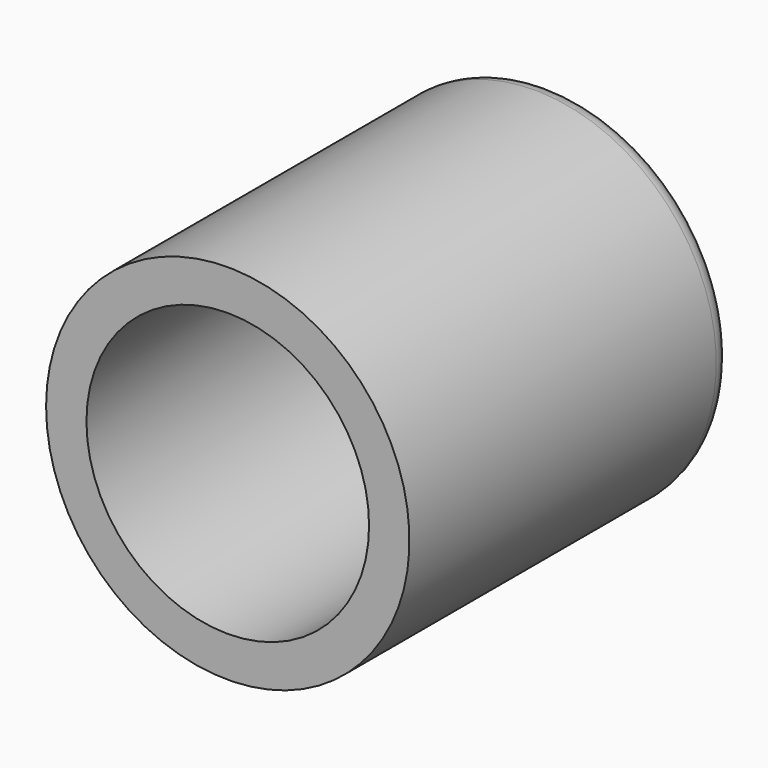
from build123d import *


with BuildPart() as f1:
    # F0 (on Top) → F1 (revolve)
    with BuildSketch(Plane.XY):
        with BuildLine():
            Line((-7.14375, 7.14375), (-7.14375, -7.9375))
            Line((-7.14375, -7.9375), (-5.55625, -7.9375))
            Line((-5.55625, -7.9375), (-5.55625, 6.35))
            Line((-5.55625, 6.35), (0, 6.35))
            Line((0, 6.35), (0, 7.9375))
            Line((0, 7.9375), (-6.35, 7.9375))
            ThreePointArc((-6.35, 7.9375), (-6.911266, 7.705016), (-7.14375, 7.14375))
        make_face()
    revolve(axis=Axis((0, 7.14375, 0), (0, 1, 0)))


solid = f1.part
